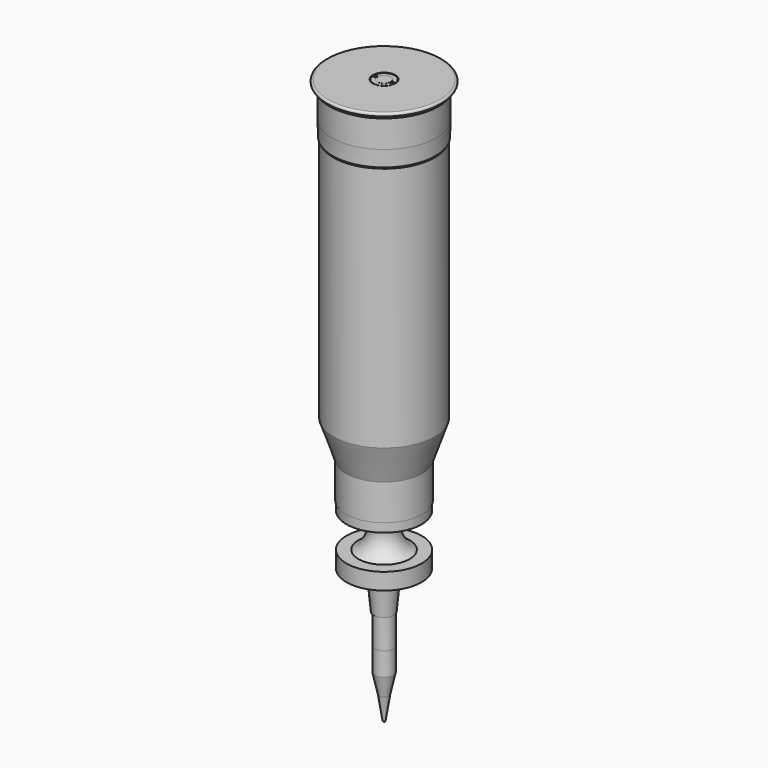
from build123d import *

# Parameters (mm, degrees)
CYLINDER002_R          = 89.5
CYLINDER002_DEPTH      = 4.3
TORUS_R                = 3
BOX001_W               = 10
BOX001_H               = 4
BOX001_DEPTH           = 10
BOX001_ROLL_ANGLE      = -22.686509
BOX001_PITCH_ANGLE     = 89.855475
BOX001_PLACEMENT_ANGLE = 22.686509
TUBE002_R              = 17.5
TUBE002_R_2            = 11
TUBE002_DEPTH          = 2.5
TUBE001_R              = 17.5
TUBE001_R_2            = 11
TUBE001_DEPTH          = 2.5
BOX_W                  = 10
BOX_H                  = 4
BOX_DEPTH              = 10
BOX_ROLL_ANGLE         = -22.686509
BOX_PITCH_ANGLE        = 89.855475
BOX_PLACEMENT_ANGLE    = 22.686509
CYLINDER004_R          = 17.5
CYLINDER004_DEPTH      = 5
CUT003_PLACEMENT_ANGLE = 45
CYLINDER003_R          = 18.5
CYLINDER003_DEPTH      = 5
CYLINDER005_R          = 18.5
CYLINDER005_DEPTH      = 5
CYLINDER001_R          = 91
CYLINDER001_DEPTH      = 5.9788
CYLINDER_R             = 85
CYLINDER_DEPTH         = 10
CYLINDER007_R          = 89.5
CYLINDER007_DEPTH      = 4.3
FILLET_R               = 2
CYLINDER008_R          = 89.5
CYLINDER008_DEPTH      = 4.3
CYLINDER006_R          = 85
CYLINDER006_DEPTH      = 47
CYLINDER009_R          = 83
CYLINDER009_DEPTH      = 402
CYLINDER010_R          = 62.5
CYLINDER010_DEPTH      = 59
CYLINDER018_R          = 15
CYLINDER018_DEPTH      = 49
CYLINDER019_R          = 15
CYLINDER019_DEPTH      = 38
CYLINDER020_R          = 11.1
CYLINDER020_DEPTH      = 10
TORUS004_R             = 38
CYLINDER014_R          = 40
CYLINDER014_DEPTH      = 33.5
TORUS005_R             = 15.5
CYLINDER013_R          = 61.5
CYLINDER013_DEPTH      = 6.5
CYLINDER015_R          = 61.5
CYLINDER015_DEPTH      = 14
CYLINDER017_R          = 52.7
CYLINDER017_DEPTH      = 10
CYLINDER016_R          = 61.5
CYLINDER016_DEPTH      = 6.5
TORUS002_R             = 10
CYLINDER011_R          = 61.5
CYLINDER011_DEPTH      = 15


with BuildPart() as cylinder002:
    # Cylinder002 → Cylinder002 (new body)
    with BuildSketch(Plane.XY.offset(974)):
        Circle(CYLINDER002_R)
    extrude(amount=CYLINDER002_DEPTH)


with BuildPart() as torus:
    # Torus → Torus (revolve)
    with BuildSketch(Plane(origin=(0, 0, 981), x_dir=(1, 0, 0), z_dir=(0, -1, 0))):
        with Locations((91, 0)):
            Circle(TORUS_R)
    revolve(axis=Axis((0, 0, 981), (0, 0, 1)))


with BuildPart() as box001:
    # Box001 → Box001 (new body)
    with BuildSketch(Plane.XY):
        with Locations((5, 2)):
            Rectangle(BOX001_W, BOX001_H)
    extrude(amount=BOX001_DEPTH)


with BuildPart() as box001_1:
    # Box001 roll: moved
    add(box001.part.rotate(Axis((0, 0, 0), (1, 0, 0)), BOX001_ROLL_ANGLE))


with BuildPart() as box001_2:
    # Box001 pitch: moved
    add(box001_1.part.rotate(Axis((0, 0, 0), (0, 1, 0)), BOX001_PITCH_ANGLE))


with BuildPart() as box001_3:
    # Box001 placement: moved
    add(box001_2.part.moved(Location((-11.359596, -14.967437, 1331.934836))).rotate(Axis((-11.359596, -14.967437, 1331.934836), (0, 0, 1)), BOX001_PLACEMENT_ANGLE))


with BuildPart() as common001:
    # Tube002 → Tube002 (new body)
    with BuildSketch(Plane.XY.offset(1325)):
        Circle(TUBE002_R)
        Circle(TUBE002_R_2, mode=Mode.SUBTRACT)
    extrude(amount=TUBE002_DEPTH)

    # Common001: intersect Box001
    add(box001_3.part, mode=Mode.INTERSECT)


with BuildPart() as common001_1:
    # Common001 placement: moved
    add(common001.part.moved(Location((0, 0, -48.5))))


with BuildPart() as tube001:
    # Tube001 → Tube001 (new body)
    with BuildSketch(Plane.XY.offset(1325)):
        Circle(TUBE001_R)
        Circle(TUBE001_R_2, mode=Mode.SUBTRACT)
    extrude(amount=TUBE001_DEPTH)


with BuildPart() as common:
    # Box → Box (new body)
    with BuildSketch(Plane.XY):
        with Locations((5, 2)):
            Rectangle(BOX_W, BOX_H)
    extrude(amount=BOX_DEPTH)


with BuildPart() as common_1:
    # Box roll: moved
    add(common.part.rotate(Axis((0, 0, 0), (1, 0, 0)), BOX_ROLL_ANGLE))


with BuildPart() as common_2:
    # Box pitch: moved
    add(common_1.part.rotate(Axis((0, 0, 0), (0, 1, 0)), BOX_PITCH_ANGLE))


with BuildPart() as common_3:
    # Box placement: moved
    add(common_2.part.moved(Location((8.31, 4.96, 1332))).rotate(Axis((8.31, 4.96, 1332), (0, 0, 1)), BOX_PLACEMENT_ANGLE))

    # Common: intersect Tube001
    add(tube001.part, mode=Mode.INTERSECT)


with BuildPart() as common_4:
    # Common placement: moved
    add(common_3.part.moved(Location((0, 0, -49))))


with BuildPart() as cut003:
    # Cylinder004 → Cylinder004 (new body)
    with BuildSketch(Plane.XY.offset(1273)):
        Circle(CYLINDER004_R)
    extrude(amount=CYLINDER004_DEPTH)

    # Cut002: cut Common
    add(common_4.part, mode=Mode.SUBTRACT)

    # Cut003: cut Common001
    add(common001_1.part, mode=Mode.SUBTRACT)


with BuildPart() as cut003_1:
    # Cut003 placement: moved
    add(cut003.part.moved(Location((0, 0, -294.3))).rotate(Axis((0, 0, -294.3), (0, 0, -1)), CUT003_PLACEMENT_ANGLE))


with BuildPart() as cylinder003:
    # Cylinder003 → Cylinder003 (new body)
    with BuildSketch(Plane.XY.offset(979)):
        Circle(CYLINDER003_R)
    extrude(amount=CYLINDER003_DEPTH)


with BuildPart() as cylinder005:
    # Cylinder005 → Cylinder005 (new body)
    with BuildSketch(Plane.XY.offset(979)):
        Circle(CYLINDER005_R)
    extrude(amount=CYLINDER005_DEPTH)


with BuildPart() as cut004:
    # Cylinder001 → Cylinder001 (new body)
    with BuildSketch(Plane.XY.offset(978)):
        Circle(CYLINDER001_R)
    extrude(amount=CYLINDER001_DEPTH)

    # Cut001: cut Cylinder003
    add(cylinder003.part, mode=Mode.SUBTRACT)

    # Cut: cut Cylinder005
    add(cylinder005.part, mode=Mode.SUBTRACT)

    # Cut004: cut Cylinder003
    add(cylinder003.part, mode=Mode.SUBTRACT)


with BuildPart() as cone001:
    # Cone001 → Cone001 (revolve)
    with BuildSketch(Plane(origin=(0, 0, 898.1), x_dir=(1, 0, 0), z_dir=(0, -1, 0))):
        Polygon((0, 0), (83, 0), (81, 3), (0, 3), align=None)
    revolve(axis=Axis((0, 0, 898.1), (0, 0, 1)))


with BuildPart() as cylinder:
    # Cylinder → Cylinder (new body)
    with BuildSketch(Plane.XY):
        Circle(CYLINDER_R)
    extrude(amount=CYLINDER_DEPTH)


with BuildPart() as cut005:
    # Cylinder007 → Cylinder007 (new body)
    with BuildSketch(Plane.XY.offset(0.46)):
        Circle(CYLINDER007_R)
    extrude(amount=CYLINDER007_DEPTH)

    # Cut005: cut Cylinder
    add(cylinder.part, mode=Mode.SUBTRACT)


with BuildPart() as cut005_1:
    # Cut005 placement: moved
    add(cut005.part.moved(Location((0, 0, 924.89))))


with BuildPart() as cut006:
    # Cone → Cone (revolve)
    with BuildSketch(Plane(origin=(0, 0, 900.03), x_dir=(1, 0, 0), z_dir=(0, -1, 0))):
        Polygon((0, 0), (84.5, 0), (85, 27), (0, 27), align=None)
    revolve(axis=Axis((0, 0, 900.03), (0, 0, 1)))

    # Fillet
    fillet_edges = [cut006.edges().sort_by_distance(p)[0] for p in [
        (-84.5, 0, 900.03),
    ]]
    fillet(fillet_edges, radius=FILLET_R)

    # Cut006: cut Cut005
    add(cut005_1.part, mode=Mode.SUBTRACT)


with BuildPart() as cylinder008:
    # Cylinder008 → Cylinder008 (new body)
    with BuildSketch(Plane.XY.offset(0.46)):
        Circle(CYLINDER008_R)
    extrude(amount=CYLINDER008_DEPTH)


with BuildPart() as cut007:
    # Cylinder006 → Cylinder006 (new body)
    with BuildSketch(Plane.XY.offset(927)):
        Circle(CYLINDER006_R)
    extrude(amount=CYLINDER006_DEPTH)

    # Cut007: cut Cylinder008
    add(cylinder008.part, mode=Mode.SUBTRACT)


with BuildPart() as cylinder009:
    # Cylinder009 → Cylinder009 (new body)
    with BuildSketch(Plane.XY.offset(496.188852)):
        Circle(CYLINDER009_R)
    extrude(amount=CYLINDER009_DEPTH)


with BuildPart() as cone002:
    # Cone002 → Cone002 (revolve)
    with BuildSketch(Plane(origin=(0, 0, 436.366655), x_dir=(1, 0, 0), z_dir=(0, -1, 0))):
        Polygon((0, 0), (62.5, 0), (83, 60), (0, 60), align=None)
    revolve(axis=Axis((0, 0, 436.366655), (0, 0, 1)))


with BuildPart() as cylinder010:
    # Cylinder010 → Cylinder010 (new body)
    with BuildSketch(Plane.XY.offset(377.75958)):
        Circle(CYLINDER010_R)
    extrude(amount=CYLINDER010_DEPTH)


with BuildPart() as cylinder018:
    # Cylinder018 → Cylinder018 (new body)
    with BuildSketch(Plane.XY.offset(168.5)):
        Circle(CYLINDER018_R)
    extrude(amount=CYLINDER018_DEPTH)


with BuildPart() as cylinder019:
    # Cylinder019 → Cylinder019 (new body)
    with BuildSketch(Plane.XY.offset(130.5)):
        Circle(CYLINDER019_R)
    extrude(amount=CYLINDER019_DEPTH)


with BuildPart() as cone007:
    # Cone007 → Cone007 (revolve)
    with BuildSketch(Plane(origin=(0, 0, 98.5), x_dir=(1, 0, 0), z_dir=(0, -1, 0))):
        Polygon((0, 0), (8, 0), (15, 32), (0, 32), align=None)
    revolve(axis=Axis((0, 0, 98.5), (0, 0, 1)))


with BuildPart() as cone008:
    # Cone008 → Cone008 (revolve)
    with BuildSketch(Plane(origin=(0, 0, 60.5), x_dir=(1, 0, 0), z_dir=(0, -1, 0))):
        Polygon((0, 0), (2, 0), (8, 38), (0, 38), align=None)
    revolve(axis=Axis((0, 0, 60.5), (0, 0, 1)))


with BuildPart() as sphere001:
    # Sphere001 → Sphere001 (revolve)
    with BuildSketch(Plane(origin=(0, 0, 60.7), x_dir=(1, 0, 0), z_dir=(0, -1, 0))):
        with BuildLine():
            ThreePointArc((0, -2), (1.414214, -1.414214), (2, 0))
            Line((2, 0), (0, 0))
            Line((0, 0), (0, -2))
        make_face()
    revolve(axis=Axis((0, 0, 60.7), (0, 0, 1)))


with BuildPart() as cylinder020:
    # Cylinder020 → Cylinder020 (new body)
    with BuildSketch(Plane.XY.offset(973.8)):
        Circle(CYLINDER020_R)
    extrude(amount=CYLINDER020_DEPTH)


with BuildPart() as torus004:
    # Torus004 → Torus004 (revolve)
    with BuildSketch(Plane(origin=(0, 0, 163), x_dir=(1, 0, 0), z_dir=(0, -1, 0))):
        with Locations((60, 0)):
            Circle(TORUS004_R)
    revolve(axis=Axis((0, 0, 163), (0, 0, 1)))


with BuildPart() as cone005:
    # Cone005 → Cone005 (revolve)
    with BuildSketch(Plane(origin=(0, 0, 163), x_dir=(-1, 0, 0), z_dir=(0, -1, 0))):
        Polygon((0, 0), (40, 0), (48, 33.5), (0, 33.5), align=None)
    revolve(axis=Axis((0, 0, 163), (0, 0, -1)))


with BuildPart() as cut012:
    # Cylinder014 → Cylinder014 (new body)
    with BuildSketch(Plane.XY.offset(162.087634)):
        Circle(CYLINDER014_R)
    extrude(amount=CYLINDER014_DEPTH)

    # Fusion001: union Cone005
    add(cone005.part)

    # Cut012: cut Torus004
    add(torus004.part, mode=Mode.SUBTRACT)


with BuildPart() as cut012_1:
    # Cut012 placement: moved
    add(cut012.part.moved(Location((0, 0, 177))))


with BuildPart() as torus005:
    # Torus005 → Torus005 (revolve)
    with BuildSketch(Plane(origin=(0, 0, -5), x_dir=(1, 0, 0), z_dir=(0, -1, 0))):
        with Locations((37.2, 0)):
            Circle(TORUS005_R)
    revolve(axis=Axis((0, 0, -5), (0, 0, 1)))


with BuildPart() as cylinder013:
    # Cylinder013 → Cylinder013 (new body)
    with BuildSketch(Plane.XY.offset(300.087634)):
        Circle(CYLINDER013_R)
    extrude(amount=CYLINDER013_DEPTH)


with BuildPart() as cut013:
    # Cylinder015 → Cylinder015 (new body)
    with BuildSketch(Plane.XY.offset(286.087634)):
        Circle(CYLINDER015_R)
    extrude(amount=CYLINDER015_DEPTH)

    # Fusion: union Cylinder013
    add(cylinder013.part)


with BuildPart() as cut013_1:
    # Fusion placement: moved
    add(cut013.part.moved(Location((0, 0, -292.5))))

    # Cut013: cut Torus005
    add(torus005.part, mode=Mode.SUBTRACT)


with BuildPart() as cylinder017:
    # Cylinder017 → Cylinder017 (new body)
    with BuildSketch(Plane.XY.offset(-227)):
        Circle(CYLINDER017_R)
    extrude(amount=CYLINDER017_DEPTH)


with BuildPart() as cut014:
    # Cylinder016 → Cylinder016 (new body)
    with BuildSketch(Plane.XY.offset(-225.912366)):
        Circle(CYLINDER016_R)
    extrude(amount=CYLINDER016_DEPTH)

    # Cut014: cut Cylinder017
    add(cylinder017.part, mode=Mode.SUBTRACT)


with BuildPart() as cut014_1:
    # Cut014 placement: moved
    add(cut014.part.moved(Location((0, 0, 213))))


with BuildPart() as fusion002:
    # Cone006 → Cone006 (revolve)
    with BuildSketch(Plane(origin=(-0.5, 0, -75.5), x_dir=(1, 0, 0), z_dir=(0, -1, 0))):
        Polygon((0, 0), (16.5, 0), (24, 80), (0, 80), align=None)
    revolve(axis=Axis((-0.5, 0, -75.5), (0, 0, 1)))

    # Fusion002: union Cut013, Cut014
    add(cut013_1.part)
    add(cut014_1.part)


with BuildPart() as fusion002_1:
    # Fusion002 placement: moved
    add(fusion002.part.moved(Location((0, 0, 292.5))))


with BuildPart() as sphere:
    # Sphere → Sphere (revolve)
    with BuildSketch(Plane(origin=(0, 0, 321.679373), x_dir=(1, 0, 0), z_dir=(0, -1, 0))):
        with BuildLine():
            ThreePointArc((0, -61), (61, 0), (0, 61))
            Line((0, 61), (0, -61))
        make_face()
    revolve(axis=Axis((0, 0, 321.679373), (0, 0, 1)))


with BuildPart() as torus002:
    # Torus002 → Torus002 (revolve)
    with BuildSketch(Plane(origin=(0, 0, 366.114628), x_dir=(1, 0, 0), z_dir=(0, -1, 0))):
        with Locations((46, 0)):
            Circle(TORUS002_R)
    revolve(axis=Axis((0, 0, 366.114628), (0, 0, 1)))


with BuildPart() as fusion003:
    # Cylinder011 → Cylinder011 (new body)
    with BuildSketch(Plane.XY.offset(362.948141)):
        Circle(CYLINDER011_R)
    extrude(amount=CYLINDER011_DEPTH)

    # Cut008: cut Torus002
    add(torus002.part, mode=Mode.SUBTRACT)

    # Cut009: cut Sphere
    add(sphere.part, mode=Mode.SUBTRACT)

    # Fusion003: union Cut012, Fusion002
    add(cut012_1.part)
    add(fusion002_1.part)


solid = Compound([cylinder002.part, torus.part, cut003_1.part, cut004.part, cone001.part, cut006.part, cut007.part, cylinder009.part, cone002.part, cylinder010.part, cylinder018.part, cylinder019.part, cone007.part, cone008.part, sphere001.part, cylinder020.part, fusion003.part])
